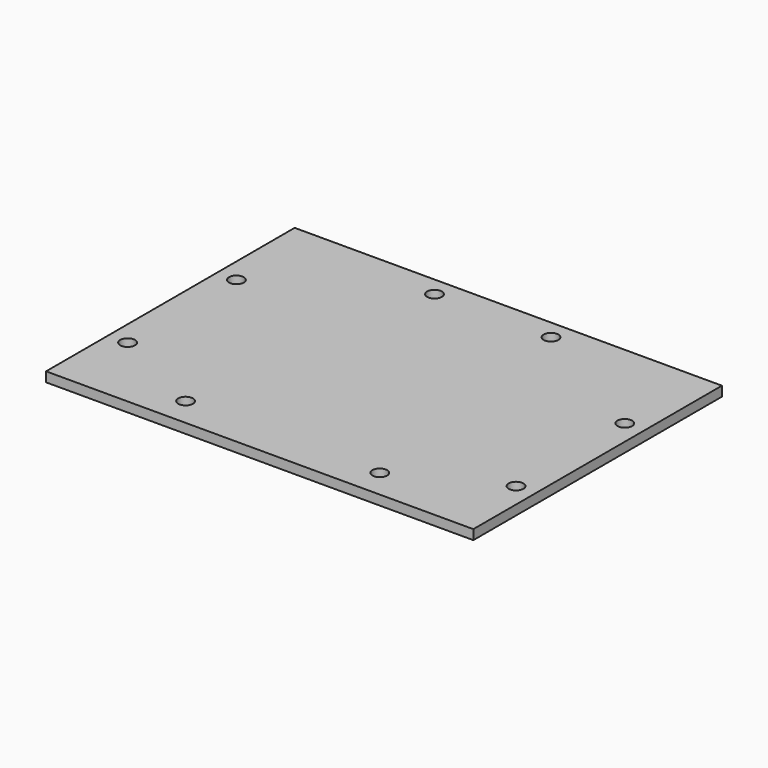
from build123d import *

# Parameters (mm, degrees)
F0_W     = 139.7
F0_H     = 101.6
F1_DEPTH = 1.5875
F2_R     = 2.413
F3_DEPTH = 3.175


with BuildPart() as f1:
    # F0 (on Top) → F1 (new body, symmetric)
    with BuildSketch(Plane.XY):
        Rectangle(F0_W, F0_H)
    extrude(amount=F1_DEPTH, both=True)

    # F2 (on face) → F3 (cut)
    with BuildSketch(Plane.XY.offset(1.5875)):
        with Locations((-19.05, 44.45)):
            Circle(F2_R)
        with Locations((19.05, 44.45)):
            Circle(F2_R)
        with Locations((-63.5, 19.05)):
            Circle(F2_R)
        with Locations((-63.5, -25.4)):
            Circle(F2_R)
        with Locations((63.5, 19.05)):
            Circle(F2_R)
        with Locations((63.5, -25.4)):
            Circle(F2_R)
        with Locations((-31.75, -41.402)):
            Circle(F2_R)
        with Locations((31.75, -41.402)):
            Circle(F2_R)
    extrude(amount=-F3_DEPTH, mode=Mode.SUBTRACT)


solid = f1.part
